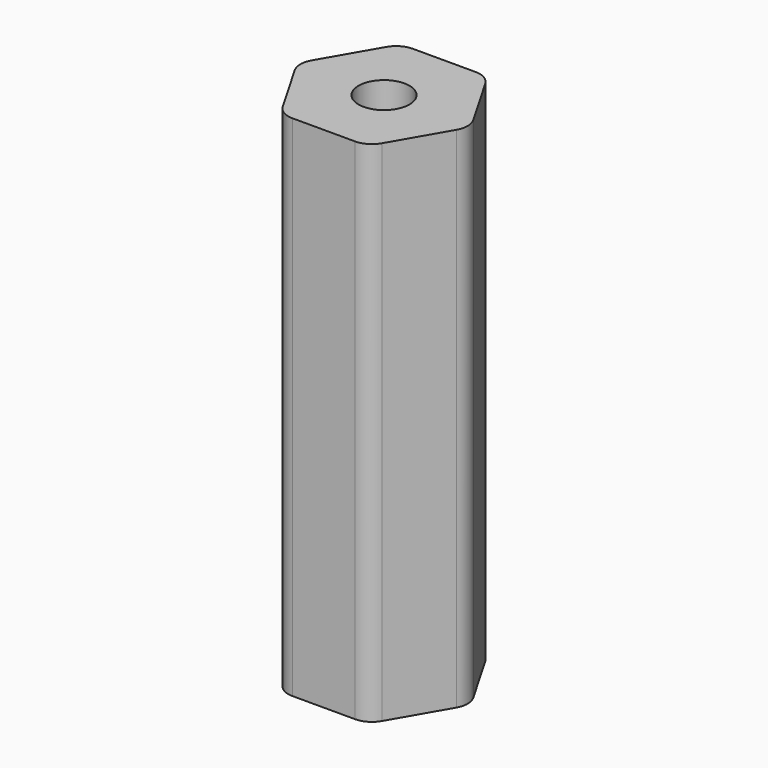
from build123d import *

# Parameters (mm, degrees)
PAD_DEPTH       = 120
SKETCH001_R     = 6
POCKET_DEPTH    = 40
SKETCH002_R     = 1.7
POCKET001_DEPTH = 14
SKETCH003_R     = 3
POCKET002_DEPTH = 3
SKETCH004_R     = 2.2
POCKET003_DEPTH = 5
FILLET_R        = 5


with BuildPart() as part:
    # Sketch → Pad (new body)
    with BuildSketch(Plane.XY):
        Polygon((10.25, -17.7535207776), (20.5, 0), (10.25, 17.7535207776), (-10.25, 17.7535207776), (-20.5, 0), (-10.25, -17.7535207776), align=None)
    extrude(amount=PAD_DEPTH)

    # Sketch001 (on Face8 of Pad) → Pocket (cut)
    with BuildSketch(Plane.XY.offset(120)):
        Circle(SKETCH001_R)
    extrude(amount=-POCKET_DEPTH, mode=Mode.SUBTRACT)

    # Sketch002 (on Face8 of Pocket) → Pocket001 (cut)
    with BuildSketch(Plane(origin=(-15.375, 8.8767603888, 0), x_dir=(-0.5, -0.8660254038, 0), z_dir=(-0.8660254038, 0.5, 0))):
        with Locations((-3.77921e-05, 109.999999997)):
            Circle(SKETCH002_R)
        with Locations((0, 97.5)):
            Circle(SKETCH002_R)
        with Locations((-0.0004273495, 85)):
            Circle(SKETCH002_R)
    extrude(amount=-POCKET001_DEPTH, mode=Mode.SUBTRACT)

    # Sketch003 (on Face8 of Pocket001) → Pocket002 (cut)
    with BuildSketch(Plane(origin=(-15.375, 8.8767603888, 0), x_dir=(-0.5, -0.8660254038, 0), z_dir=(-0.8660254038, 0.5, 0))):
        with Locations((-0.0004273495, 85)):
            Circle(SKETCH003_R)
        with Locations((0, 97.5)):
            Circle(SKETCH003_R)
        with Locations((-3.77921e-05, 109.999999997)):
            Circle(SKETCH003_R)
    extrude(amount=-POCKET002_DEPTH, mode=Mode.SUBTRACT)

    # Sketch004 (on Face18 of Pocket002) → Pocket003 (cut)
    with BuildSketch(Plane(origin=(-12.7769237886, 7.3767603888, 0), x_dir=(-0.5, -0.8660254038, 0), z_dir=(-0.8660254038, 0.5, 0))):
        with Locations((-0.0004273495, 85)):
            Circle(SKETCH004_R)
        with Locations((-3.77921e-05, 109.999999997)):
            Circle(SKETCH004_R)
        with Locations((0, 97.5)):
            Circle(SKETCH004_R)
    extrude(amount=-POCKET003_DEPTH, mode=Mode.SUBTRACT)

    # Fillet
    fillet_edges = [part.edges().sort_by_distance(p)[0] for p in [
        (20.5, 0, 60),
        (-20.5, 0, 60),
        (10.25, -17.753521, 60),
        (-10.25, -17.753521, 60),
        (-10.25, 17.753521, 60),
        (10.25, 17.753521, 60),
    ]]
    fillet(fillet_edges, radius=FILLET_R)


solid = part.part
